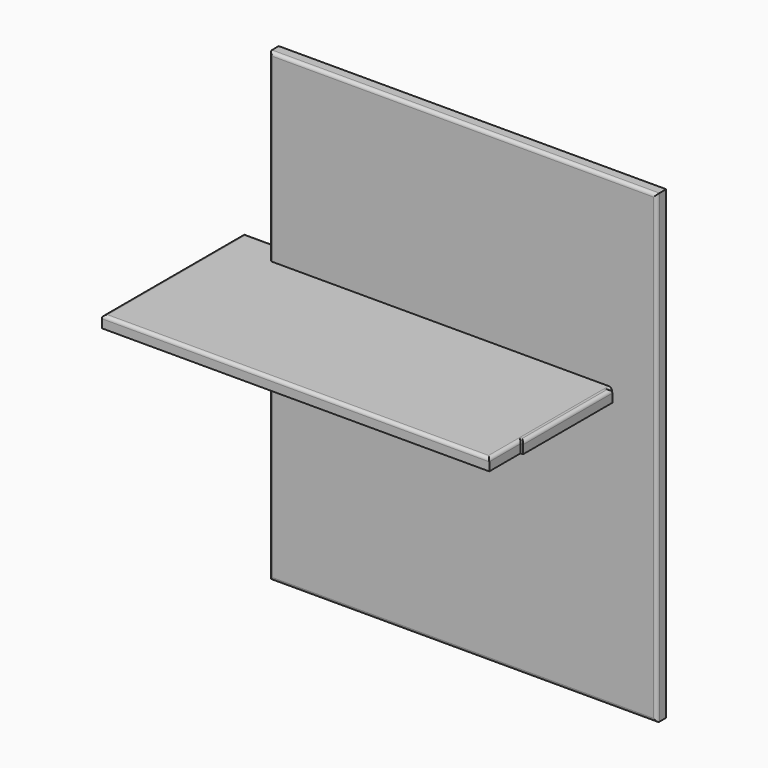
from build123d import *

# Parameters (mm, degrees)
F0_W      = 597
F0_H      = 717
F1_DEPTH  = 18
F2_R      = 5
F4_W      = 587
F4_H      = 172
F5_DEPTH  = 17
F7_W      = 597
F7_H      = 172
F8_DEPTH  = 18
F9_R      = 5
F10_W     = 597
F10_H     = 274
F11_DEPTH = 18
F12_R     = 5


with BuildPart() as f1:
    # F0 (on Front) → F1 (new body)
    with BuildSketch(Plane.XZ):
        with Locations((-21.90291, -56.646419)):
            Rectangle(F0_W, F0_H)
    extrude(amount=F1_DEPTH)

    # F2
    f2_edges = [f1.edges().sort_by_distance(p)[0] for p in [
        (-21.90291, -18, -415.146419),
        (276.59709, -18, -56.646419),
        (-21.90291, -18, 301.853581),
        (-320.40291, -18, -56.646419),
    ]]
    fillet(f2_edges, radius=F2_R)


with BuildPart() as f3_1:
    # F3: copy of F1
    add(f1.part.moved(Location((700, 0, 0))))

    # F4 (on face) → F5 (join)
    with BuildSketch(Plane.XZ.offset(18)):
        with Locations((678.09709, 210.853581)):
            Rectangle(F4_W, F4_H)
    extrude(amount=-F5_DEPTH)


with BuildPart() as f8:
    # F7 (on Top) → F8 (new body)
    with BuildSketch(Plane.XY):
        with Locations((-87.12443, -108.21071)):
            Rectangle(F7_W, F7_H)
    extrude(amount=F8_DEPTH)

    # F9
    f9_edges = [f8.edges().sort_by_distance(p)[0] for p in [
        (-87.12443, -22.21071, 18),
        (-385.62443, -108.21071, 18),
        (-87.12443, -194.21071, 18),
        (211.37557, -108.21071, 18),
    ]]
    fillet(f9_edges, radius=F9_R)


with BuildPart() as f11:
    # F10 (on Top) → F11 (new body)
    with BuildSketch(Plane.XY):
        with Locations((-91.044821, -117.389939)):
            Rectangle(F10_W, F10_H)
    extrude(amount=F11_DEPTH)

    # F12
    f12_edges = [f11.edges().sort_by_distance(p)[0] for p in [
        (-91.044821, 19.610061, 18),
        (-389.544821, -117.389939, 18),
        (-91.044821, -254.389939, 18),
        (207.455179, -117.389939, 18),
    ]]
    fillet(f12_edges, radius=F12_R)


solid = Compound([f1.part, f8.part, f11.part])
